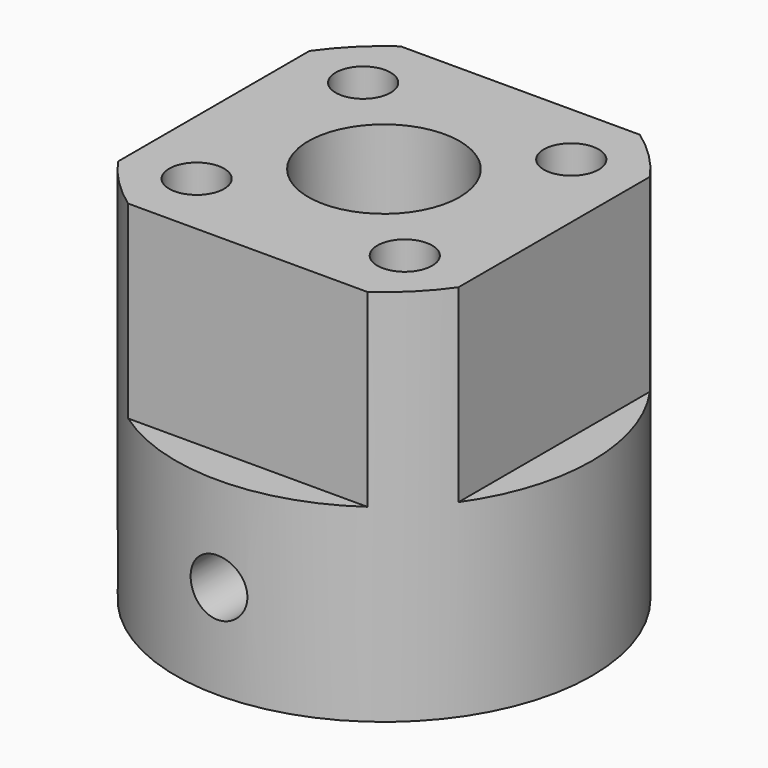
from build123d import *

# Parameters (mm, degrees)
SKETCH_R             = 11
SKETCH_R_2           = 3
PAD_DEPTH            = 20
POCKET_DEPTH         = 10
SKETCH002_R          = 4
POCKET001_DEPTH      = 8
SKETCH003_R          = 1.5
POCKET002_DEPTH      = 11.001
POCKET002_DEPTH_BACK = -11.001
SKETCH004_W          = 2.5
SKETCH004_H          = 5.6
POCKET003_DEPTH      = 8
SKETCH005_R          = 1.45
POCKET004_DEPTH      = 20.001


with BuildPart() as part:
    # Sketch → Pad (new body)
    with BuildSketch(Plane.XY):
        Circle(SKETCH_R)
        Circle(SKETCH_R_2, mode=Mode.SUBTRACT)
    extrude(amount=PAD_DEPTH)

    # Sketch001 (on Face4 of Pad) → Pocket (cut)
    with BuildSketch(Plane.XY.offset(20)):
        Polygon((-15, -8), (-9, -8), (-9, 9), (9, 9), (9, -9), (-8, -9), (-8, -15), (15, -15), (15, 15), (-15, 15), align=None)
    extrude(amount=-POCKET_DEPTH, mode=Mode.SUBTRACT)

    # Sketch002 (on Face5 of Pocket) → Pocket001 (cut)
    with BuildSketch(Plane.XY.offset(20)):
        Circle(SKETCH002_R)
    extrude(amount=-POCKET001_DEPTH, mode=Mode.SUBTRACT)

    # Sketch003 → Pocket002 (cut, two sides)
    with BuildSketch(Plane.XZ) as pocket002_sk:
        with Locations((0, 5)):
            Circle(SKETCH003_R)
    extrude(amount=-POCKET002_DEPTH, mode=Mode.SUBTRACT)
    extrude(pocket002_sk.sketch, amount=-POCKET002_DEPTH_BACK, mode=Mode.SUBTRACT)

    # Sketch004 (on Face11 of Pocket002) → Pocket003 (cut)
    with BuildSketch(Plane(origin=(0, 0, 0), x_dir=(0, -1, 0), z_dir=(0, 0, -1))):
        with Locations((-5.25, 0)):
            Rectangle(SKETCH004_W, SKETCH004_H)
        with Locations((5.25, 0)):
            Rectangle(SKETCH004_W, SKETCH004_H)
    extrude(amount=-POCKET003_DEPTH, mode=Mode.SUBTRACT)

    # Sketch005 (on Face11 of Pocket003) → Pocket004 (cut, through all)
    with BuildSketch(Plane(origin=(0, 0, 0), x_dir=(1, 0, 0), z_dir=(0, 0, -1))):
        with Locations((-5.5, 5.5)):
            Circle(SKETCH005_R)
        with Locations((-5.5, -5.5)):
            Circle(SKETCH005_R)
        with Locations((5.5, -5.5)):
            Circle(SKETCH005_R)
        with Locations((5.5, 5.5)):
            Circle(SKETCH005_R)
    extrude(amount=-POCKET004_DEPTH, mode=Mode.SUBTRACT)


solid = part.part
